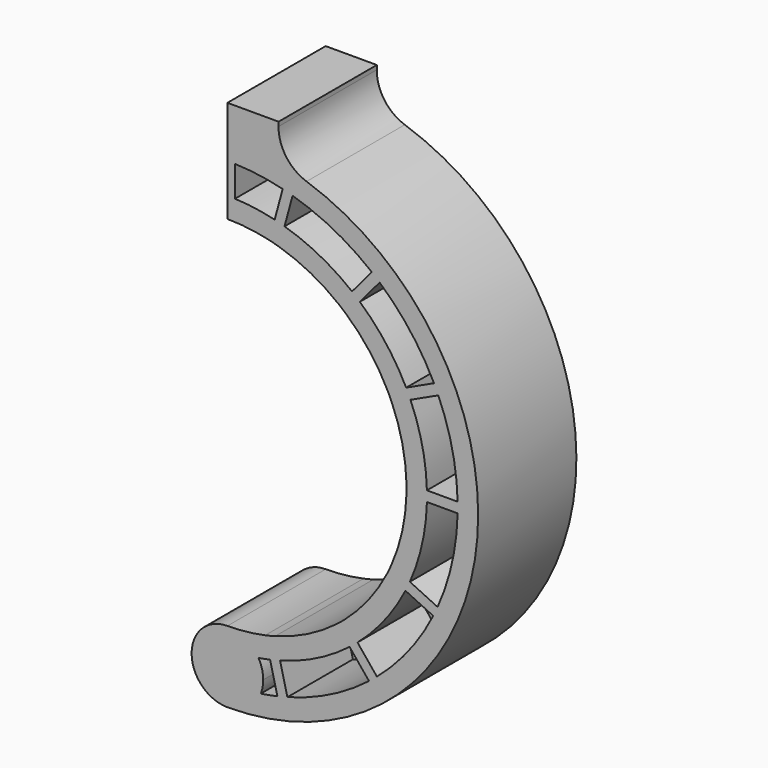
from build123d import *

# Parameters (mm, degrees)
F1_DEPTH = 12
F2_DEPTH = 4


with BuildPart() as f1:
    # F0 (on Front) → F1 (new body)
    with BuildSketch(Plane.XZ):
        with BuildLine():
            ThreePointArc((3.2645974288, -22.2619047619), (1.9790570145, -23.8867513459), (0, -24.5))
            ThreePointArc((0, -24.5), (24.1848553106, -3.91698527), (7.7332017966, 23.2475286853))
            ThreePointArc((7.7332017966, 23.2475286853), (5.7402372634, 24.7189229124), (4.9959526272, 27.0817493941))
            Line((4.9959526272, 27.0817493941), (5, 27.5))
            Line((5, 27.5), (0, 27.5))
            Line((0, 27.5), (0, 22.5))
            ThreePointArc((0, 22.5), (0.3684190635, 22.4969835177), (0.7367393421, 22.4879348794))
            ThreePointArc((0.7367393421, 22.4879348794), (3.0854175192, 22.2874448677), (5.4002308519, 21.8423329053))
            ThreePointArc((5.4002308519, 21.8423329053), (5.8842824725, 21.7169339407), (6.3654279159, 21.5808092399))
            ThreePointArc((6.3654279159, 21.5808092399), (10.4359015463, 19.9334382111), (14.1088814913, 17.5268212481))
            Line((14.1088814913, 17.5268212481), (15.390053392, 19.0478849319))
            Line((15.390053392, 19.0478849319), (16.1548961655, 18.4036679406))
            Line((16.1548961655, 18.4036679406), (14.8737242648, 16.8826042569))
            ThreePointArc((14.8737242648, 16.8826042569), (17.8696160512, 13.6721184234), (20.1848709505, 9.940874444))
            Line((20.1848709505, 9.940874444), (21.9880539238, 10.7796636511))
            Line((21.9880539238, 10.7796636511), (22.4098257867, 9.8729616628))
            Line((22.4098257867, 9.8729616628), (20.6066428134, 9.0341724557))
            ThreePointArc((20.6066428134, 9.0341724557), (21.968931262, 4.8596357071), (22.4944437584, 0.5))
            Line((22.4944437584, 0.5), (24.4831710321, 0.5))
            Line((24.4831710321, 0.5), (24.4831710321, -0.5))
            Line((24.4831710321, -0.5), (22.4944437584, -0.5))
            ThreePointArc((22.4944437584, -0.5), (21.9498115027, -4.9452780503), (20.5355495573, -9.1946291051))
            Line((20.5355495573, -9.1946291051), (22.3321351352, -10.0474575933))
            Line((22.3321351352, -10.0474575933), (21.9033038423, -10.9508421859))
            Line((21.9033038423, -10.9508421859), (20.1067182643, -10.0980136977))
            ThreePointArc((20.1067182643, -10.0980136977), (17.708431542, -13.8802540438), (14.6085543834, -17.1125725368))
            Line((14.6085543834, -17.1125725368), (15.8658425706, -18.6534367694))
            Line((15.8658425706, -18.6534367694), (15.0910434049, -19.2856442137))
            Line((15.0910434049, -19.2856442137), (13.8337552177, -17.7447799811))
            ThreePointArc((13.8337552177, -17.7447799811), (10.0452369261, -20.1331372393), (5.8587363435, -21.7238396343))
            Line((5.8587363435, -21.7238396343), (6.3337803191, -23.6549971603))
            Line((6.3337803191, -23.6549971603), (5.3627283546, -23.8938654968))
            Line((5.3627283546, -23.8938654968), (4.887684379, -21.9627079708))
            ThreePointArc((4.887684379, -21.9627079708), (4.0788851845, -22.1271935783), (3.2645974288, -22.2619047619))
        make_face()
        with BuildLine():
            Line((15.390053392, 19.0478849319), (14.1088814913, 17.5268212481))
            ThreePointArc((14.1088814913, 17.5268212481), (14.4948823033, 17.2089624038), (14.8737242648, 16.8826042569))
            Line((14.8737242648, 16.8826042569), (16.1548961655, 18.4036679406))
            Line((16.1548961655, 18.4036679406), (15.390053392, 19.0478849319))
        make_face()
        with BuildLine():
            Line((21.9880539238, 10.7796636511), (20.1848709505, 9.940874444))
            ThreePointArc((20.1848709505, 9.940874444), (20.4007947373, 9.4898669162), (20.6066428134, 9.0341724557))
            Line((20.6066428134, 9.0341724557), (22.4098257867, 9.8729616628))
            Line((22.4098257867, 9.8729616628), (21.9880539238, 10.7796636511))
        make_face()
        with BuildLine():
            ThreePointArc((22.4944437584, 0.5), (22.5, 0), (22.4944437584, -0.5))
            Line((22.4944437584, -0.5), (24.4831710321, -0.5))
            Line((24.4831710321, -0.5), (24.4831710321, 0.5))
            Line((24.4831710321, 0.5), (22.4944437584, 0.5))
        make_face()
        with BuildLine():
            ThreePointArc((20.5355495573, -9.1946291051), (20.3261533338, -9.6487040917), (20.1067182643, -10.0980136977))
            Line((20.1067182643, -10.0980136977), (21.9033038423, -10.9508421859))
            Line((21.9033038423, -10.9508421859), (22.3321351352, -10.0474575933))
            Line((22.3321351352, -10.0474575933), (20.5355495573, -9.1946291051))
        make_face()
        with BuildLine():
            ThreePointArc((14.6085543834, -17.1125725368), (14.2246674978, -17.4329812303), (13.8337552177, -17.7447799811))
            Line((13.8337552177, -17.7447799811), (15.0910434049, -19.2856442137))
            Line((15.0910434049, -19.2856442137), (15.8658425706, -18.6534367694))
            Line((15.8658425706, -18.6534367694), (14.6085543834, -17.1125725368))
        make_face()
        with BuildLine():
            ThreePointArc((5.8587363435, -21.7238396343), (5.3745375714, -21.8486692019), (4.887684379, -21.9627079708))
            Line((4.887684379, -21.9627079708), (5.3627283546, -23.8938654968))
            Line((5.3627283546, -23.8938654968), (6.3337803191, -23.6549971603))
            Line((6.3337803191, -23.6549971603), (5.8587363435, -21.7238396343))
        make_face()
        with BuildLine():
            ThreePointArc((10.6717140038, -13.8695537139), (7.8129620537, -15.6591067417), (4.6640153204, -16.8670377094))
            Line((4.6640153204, -16.8670377094), (5.1419270851, -18.8098534245))
            ThreePointArc((5.1419270851, -18.8098534245), (8.7058720027, -17.4487189408), (11.9365923038, -15.4197199772))
            Line((11.9365923038, -15.4197199772), (10.6717140038, -13.8695537139))
        make_face()
        with BuildLine():
            ThreePointArc((4.6640153204, -16.8670377094), (4.1801958889, -16.9934093792), (3.6929633559, -17.1059060459))
            Line((3.6929633559, -17.1059060459), (4.1708751206, -19.048721761))
            ThreePointArc((4.1708751206, -19.048721761), (4.6579325619, -18.9355133083), (5.1419270851, -18.8098534245))
            Line((5.1419270851, -18.8098534245), (4.6640153204, -16.8670377094))
        make_face()
        with BuildLine():
            ThreePointArc((3.6929633559, -17.1059060459), (1.8569658312, -17.4011975996), (0, -17.5))
            ThreePointArc((0, -17.5), (1.7559422921, -17.9723496459), (3.03793103, -19.2619047619))
            ThreePointArc((3.03793103, -19.2619047619), (3.6059788237, -19.1636874511), (4.1708751206, -19.048721761))
            Line((4.1708751206, -19.048721761), (3.6929633559, -17.1059060459))
        make_face()
        with BuildLine():
            ThreePointArc((0, -17.5), (-3.5, -21), (0, -24.5))
            ThreePointArc((0, -24.5), (1.9790570145, -23.8867513459), (3.2645974288, -22.2619047619))
            ThreePointArc((3.2645974288, -22.2619047619), (3.4406460876, -21.641836817), (3.5, -21))
            ThreePointArc((3.5, -21), (3.3825107986, -20.1007666057), (3.03793103, -19.2619047619))
            ThreePointArc((3.03793103, -19.2619047619), (1.7559422921, -17.9723496459), (0, -17.5))
        make_face()
        with BuildLine():
            ThreePointArc((11.4465131696, -13.2373462695), (11.0636302761, -13.5589854013), (10.6717140038, -13.8695537139))
            Line((10.6717140038, -13.8695537139), (11.9365923038, -15.4197199772))
            ThreePointArc((11.9365923038, -15.4197199772), (12.3280451648, -15.1085837329), (12.7113914695, -14.7875125328))
            Line((12.7113914695, -14.7875125328), (11.4465131696, -13.2373462695))
        make_face()
        with BuildLine():
            Line((4.1708751206, -19.048721761), (4.887684379, -21.9627079708))
            ThreePointArc((4.887684379, -21.9627079708), (5.3745375714, -21.8486692019), (5.8587363435, -21.7238396343))
            Line((5.8587363435, -21.7238396343), (5.1419270851, -18.8098534245))
            ThreePointArc((5.1419270851, -18.8098534245), (4.6579325619, -18.9355133083), (4.1708751206, -19.048721761))
        make_face()
        with BuildLine():
            Line((11.9365923038, -15.4197199772), (13.8337552177, -17.7447799811))
            ThreePointArc((13.8337552177, -17.7447799811), (14.2246674978, -17.4329812303), (14.6085543834, -17.1125725368))
            Line((14.6085543834, -17.1125725368), (12.7113914695, -14.7875125328))
            ThreePointArc((12.7113914695, -14.7875125328), (12.3280451648, -15.1085837329), (11.9365923038, -15.4197199772))
        make_face()
        with BuildLine():
            ThreePointArc((15.5883606598, -7.9531762171), (13.7732245327, -10.7957531452), (11.4465131696, -13.2373462695))
            Line((11.4465131696, -13.2373462695), (12.7113914695, -14.7875125328))
            ThreePointArc((12.7113914695, -14.7875125328), (15.3473073364, -12.0295535047), (17.3957920305, -8.8111531386))
            Line((17.3957920305, -8.8111531386), (15.5883606598, -7.9531762171))
        make_face()
        with BuildLine():
            ThreePointArc((16.0171919527, -7.0497916245), (15.8092303708, -7.5045476269), (15.5883606598, -7.9531762171))
            Line((15.5883606598, -7.9531762171), (17.3957920305, -8.8111531386))
            ThreePointArc((17.3957920305, -8.8111531386), (17.615999556, -8.3622102128), (17.8246233235, -7.907768546))
            Line((17.8246233235, -7.907768546), (16.0171919527, -7.0497916245))
        make_face()
        with BuildLine():
            ThreePointArc((17.4928556845, -0.5), (17.0720756132, -3.8463273724), (16.0171919527, -7.0497916245))
            Line((16.0171919527, -7.0497916245), (17.8246233235, -7.907768546))
            ThreePointArc((17.8246233235, -7.907768546), (19.023169969, -4.2859076436), (19.4935886896, -0.5))
            Line((19.4935886896, -0.5), (17.4928556845, -0.5))
        make_face()
        with BuildLine():
            ThreePointArc((17.4928556845, 0.5), (17.5, 0), (17.4928556845, -0.5))
            Line((17.4928556845, -0.5), (19.4935886896, -0.5))
            ThreePointArc((19.4935886896, -0.5), (19.5, 0), (19.4935886896, 0.5))
            Line((19.4935886896, 0.5), (17.4928556845, 0.5))
        make_face()
        with BuildLine():
            ThreePointArc((16.0716929621, 6.9246433361), (17.0869465371, 3.7797166611), (17.4928556845, 0.5))
            Line((17.4928556845, 0.5), (19.4935886896, 0.5))
            ThreePointArc((19.4935886896, 0.5), (19.0397404271, 4.2116842795), (17.8857615559, 7.7684962229))
            Line((17.8857615559, 7.7684962229), (16.0716929621, 6.9246433361))
        make_face()
        with BuildLine():
            Line((17.3957920305, -8.8111531386), (20.1067182643, -10.0980136977))
            ThreePointArc((20.1067182643, -10.0980136977), (20.3261533338, -9.6487040917), (20.5355495573, -9.1946291051))
            Line((20.5355495573, -9.1946291051), (17.8246233235, -7.907768546))
            ThreePointArc((17.8246233235, -7.907768546), (17.615999556, -8.3622102128), (17.3957920305, -8.8111531386))
        make_face()
        with BuildLine():
            Line((19.4935886896, -0.5), (22.4944437584, -0.5))
            ThreePointArc((22.4944437584, -0.5), (22.5, 0), (22.4944437584, 0.5))
            Line((22.4944437584, 0.5), (19.4935886896, 0.5))
            ThreePointArc((19.4935886896, 0.5), (19.5, 0), (19.4935886896, -0.5))
        make_face()
        with BuildLine():
            Line((17.463989693, 8.6751982112), (15.6499210991, 7.8313453244))
            ThreePointArc((15.6499210991, 7.8313453244), (15.8672847957, 7.3810076015), (16.0716929621, 6.9246433361))
            Line((16.0716929621, 6.9246433361), (17.8857615559, 7.7684962229))
            ThreePointArc((17.8857615559, 7.7684962229), (17.6806887723, 8.2245513274), (17.463989693, 8.6751982112))
        make_face()
        with BuildLine():
            Line((20.1848709505, 9.940874444), (17.463989693, 8.6751982112))
            ThreePointArc((17.463989693, 8.6751982112), (17.6806887723, 8.2245513274), (17.8857615559, 7.7684962229))
            Line((17.8857615559, 7.7684962229), (20.6066428134, 9.0341724557))
            ThreePointArc((20.6066428134, 9.0341724557), (20.4007947373, 9.4898669162), (20.1848709505, 9.940874444))
        make_face()
        with BuildLine():
            Line((12.9405224412, 14.5874219432), (11.6516162443, 13.0571757626))
            ThreePointArc((11.6516162443, 13.0571757626), (13.898590262, 10.6338698849), (15.6499210991, 7.8313453244))
            Line((15.6499210991, 7.8313453244), (17.463989693, 8.6751982112))
            ThreePointArc((17.463989693, 8.6751982112), (15.4870005777, 11.8491693003), (12.9405224412, 14.5874219432))
        make_face()
        with BuildLine():
            Line((12.1756796677, 15.2316389345), (10.8867734708, 13.7013927538))
            ThreePointArc((10.8867734708, 13.7013927538), (11.273797347, 13.3847485363), (11.6516162443, 13.0571757626))
            Line((11.6516162443, 13.0571757626), (12.9405224412, 14.5874219432))
            ThreePointArc((12.9405224412, 14.5874219432), (12.5622313295, 14.9144340833), (12.1756796677, 15.2316389345))
        make_face()
        with BuildLine():
            Line((14.1088814913, 17.5268212481), (12.1756796677, 15.2316389345))
            ThreePointArc((12.1756796677, 15.2316389345), (12.5622313295, 14.9144340833), (12.9405224412, 14.5874219432))
            Line((12.9405224412, 14.5874219432), (14.8737242648, 16.8826042569))
            ThreePointArc((14.8737242648, 16.8826042569), (14.4948823033, 17.2089624038), (14.1088814913, 17.5268212481))
        make_face()
        with BuildLine():
            Line((5.5806332988, 18.6843927379), (5.0573942698, 16.7532911155))
            ThreePointArc((5.0573942698, 16.7532911155), (8.1168123138, 15.5037852753), (10.8867734708, 13.7013927538))
            Line((10.8867734708, 13.7013927538), (12.1756796677, 15.2316389345))
            ThreePointArc((12.1756796677, 15.2316389345), (9.0444480068, 17.2756464496), (5.5806332988, 18.6843927379))
        make_face()
        with BuildLine():
            Line((5.4002308519, 21.8423329053), (4.6154362348, 18.9459164033))
            ThreePointArc((4.6154362348, 18.9459164033), (5.0997114762, 18.8213427486), (5.5806332988, 18.6843927379))
            Line((5.5806332988, 18.6843927379), (6.3654279159, 21.5808092399))
            ThreePointArc((6.3654279159, 21.5808092399), (5.8842824725, 21.7169339407), (5.4002308519, 21.8423329053))
        make_face()
        with BuildLine():
            Line((4.6154362348, 18.9459164033), (4.0921972057, 17.0148147809))
            ThreePointArc((4.0921972057, 17.0148147809), (4.5766641453, 16.8909486205), (5.0573942698, 16.7532911155))
            Line((5.0573942698, 16.7532911155), (5.5806332988, 18.6843927379))
            ThreePointArc((5.5806332988, 18.6843927379), (5.0997114762, 18.8213427486), (4.6154362348, 18.9459164033))
        make_face()
        with BuildLine():
            Line((0, 19.5), (0, 17.5))
            ThreePointArc((0, 17.5), (2.0604297287, 17.3782803906), (4.0921972057, 17.0148147809))
            Line((4.0921972057, 17.0148147809), (4.6154362348, 18.9459164033))
            ThreePointArc((4.6154362348, 18.9459164033), (2.6896820158, 19.3136120561), (0.7367393421, 19.4860774694))
            ThreePointArc((0.7367393421, 19.4860774694), (0.3684354404, 19.4965190566), (0, 19.5))
        make_face()
        with BuildLine():
            Line((0, 22.5), (0, 19.5))
            ThreePointArc((0, 19.5), (0.3684354404, 19.4965190566), (0.7367393421, 19.4860774694))
            Line((0.7367393421, 19.4860774694), (0.7367393421, 22.4879348794))
            ThreePointArc((0.7367393421, 22.4879348794), (0.3684190635, 22.4969835177), (0, 22.5))
        make_face()
    extrude(amount=F1_DEPTH)

    # F0 (on Front) → F2 (join)
    with BuildSketch(Plane.XZ):
        with BuildLine():
            Line((5.1419270851, -18.8098534245), (5.8587363435, -21.7238396343))
            ThreePointArc((5.8587363435, -21.7238396343), (10.0452369261, -20.1331372393), (13.8337552177, -17.7447799811))
            Line((13.8337552177, -17.7447799811), (11.9365923038, -15.4197199772))
            ThreePointArc((11.9365923038, -15.4197199772), (8.7058720027, -17.4487189408), (5.1419270851, -18.8098534245))
        make_face()
        with BuildLine():
            Line((19.4935886896, 0.5), (22.4944437584, 0.5))
            ThreePointArc((22.4944437584, 0.5), (21.968931262, 4.8596357071), (20.6066428134, 9.0341724557))
            Line((20.6066428134, 9.0341724557), (17.8857615559, 7.7684962229))
            ThreePointArc((17.8857615559, 7.7684962229), (19.0397404271, 4.2116842795), (19.4935886896, 0.5))
        make_face()
        with BuildLine():
            Line((14.8737242648, 16.8826042569), (12.9405224412, 14.5874219432))
            ThreePointArc((12.9405224412, 14.5874219432), (15.4870005777, 11.8491693003), (17.463989693, 8.6751982112))
            Line((17.463989693, 8.6751982112), (20.1848709505, 9.940874444))
            ThreePointArc((20.1848709505, 9.940874444), (17.8696160512, 13.6721184234), (14.8737242648, 16.8826042569))
        make_face()
        with BuildLine():
            Line((17.8246233235, -7.907768546), (20.5355495573, -9.1946291051))
            ThreePointArc((20.5355495573, -9.1946291051), (21.9498115027, -4.9452780503), (22.4944437584, -0.5))
            Line((22.4944437584, -0.5), (19.4935886896, -0.5))
            ThreePointArc((19.4935886896, -0.5), (19.023169969, -4.2859076436), (17.8246233235, -7.907768546))
        make_face()
        with BuildLine():
            Line((6.3654279159, 21.5808092399), (5.5806332988, 18.6843927379))
            ThreePointArc((5.5806332988, 18.6843927379), (9.0444480068, 17.2756464496), (12.1756796677, 15.2316389345))
            Line((12.1756796677, 15.2316389345), (14.1088814913, 17.5268212481))
            ThreePointArc((14.1088814913, 17.5268212481), (10.4359015463, 19.9334382111), (6.3654279159, 21.5808092399))
        make_face()
        with BuildLine():
            ThreePointArc((3.5, -21), (3.4406460876, -21.641836817), (3.2645974288, -22.2619047619))
            ThreePointArc((3.2645974288, -22.2619047619), (4.0788851845, -22.1271935783), (4.887684379, -21.9627079708))
            Line((4.887684379, -21.9627079708), (4.1708751206, -19.048721761))
            ThreePointArc((4.1708751206, -19.048721761), (3.6059788237, -19.1636874511), (3.03793103, -19.2619047619))
            ThreePointArc((3.03793103, -19.2619047619), (3.3825107986, -20.1007666057), (3.5, -21))
        make_face()
        with BuildLine():
            Line((12.7113914695, -14.7875125328), (14.6085543834, -17.1125725368))
            ThreePointArc((14.6085543834, -17.1125725368), (17.708431542, -13.8802540438), (20.1067182643, -10.0980136977))
            Line((20.1067182643, -10.0980136977), (17.3957920305, -8.8111531386))
            ThreePointArc((17.3957920305, -8.8111531386), (15.3473073364, -12.0295535047), (12.7113914695, -14.7875125328))
        make_face()
        with BuildLine():
            ThreePointArc((0.7367393421, 19.4860774694), (2.6896820158, 19.3136120561), (4.6154362348, 18.9459164033))
            Line((4.6154362348, 18.9459164033), (5.4002308519, 21.8423329053))
            ThreePointArc((5.4002308519, 21.8423329053), (3.0854175192, 22.2874448677), (0.7367393421, 22.4879348794))
            Line((0.7367393421, 22.4879348794), (0.7367393421, 19.4860774694))
        make_face()
    extrude(amount=F2_DEPTH)


solid = f1.part
